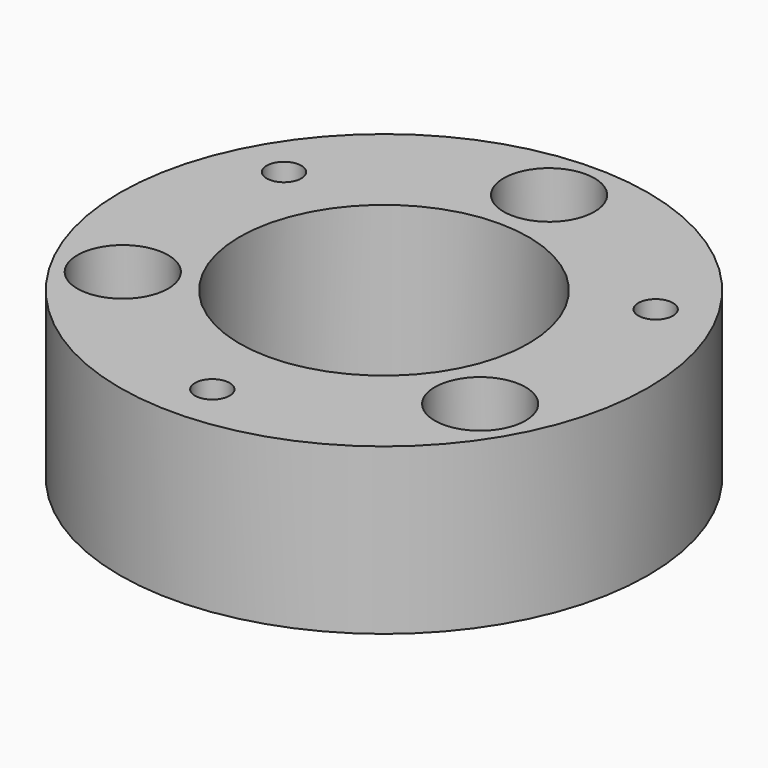
from build123d import *

# Parameters (mm, degrees)
SKETCH_R     = 32
SKETCH_R_2   = 2.1
SKETCH_R_3   = 3
SKETCH_R_4   = 17.5
PAD_DEPTH    = 20
SKETCH001_R  = 5.5
POCKET_DEPTH = 10


with BuildPart() as part:
    # Sketch → Pad (new body)
    with BuildSketch(Plane.XY):
        Circle(SKETCH_R)
        with Locations((0, -26)):
            Circle(SKETCH_R_2, mode=Mode.SUBTRACT)
        with Locations((-22.51666, 13)):
            Circle(SKETCH_R_2, mode=Mode.SUBTRACT)
        with Locations((22.51666, 13)):
            Circle(SKETCH_R_2, mode=Mode.SUBTRACT)
        with Locations((0, 25)):
            Circle(SKETCH_R_3, mode=Mode.SUBTRACT)
        with Locations((-21.650635, -12.5)):
            Circle(SKETCH_R_3, mode=Mode.SUBTRACT)
        with Locations((21.650635, -12.5)):
            Circle(SKETCH_R_3, mode=Mode.SUBTRACT)
        Circle(SKETCH_R_4, mode=Mode.SUBTRACT)
    extrude(amount=PAD_DEPTH)

    # Sketch001 (on Face10 of Pad) → Pocket (cut)
    with BuildSketch(Plane.XY.offset(20)):
        with Locations((0, 25)):
            Circle(SKETCH001_R)
        with Locations((-21.650635, -12.5)):
            Circle(SKETCH001_R)
        with Locations((21.650635, -12.5)):
            Circle(SKETCH001_R)
    extrude(amount=-POCKET_DEPTH, mode=Mode.SUBTRACT)


solid = part.part
